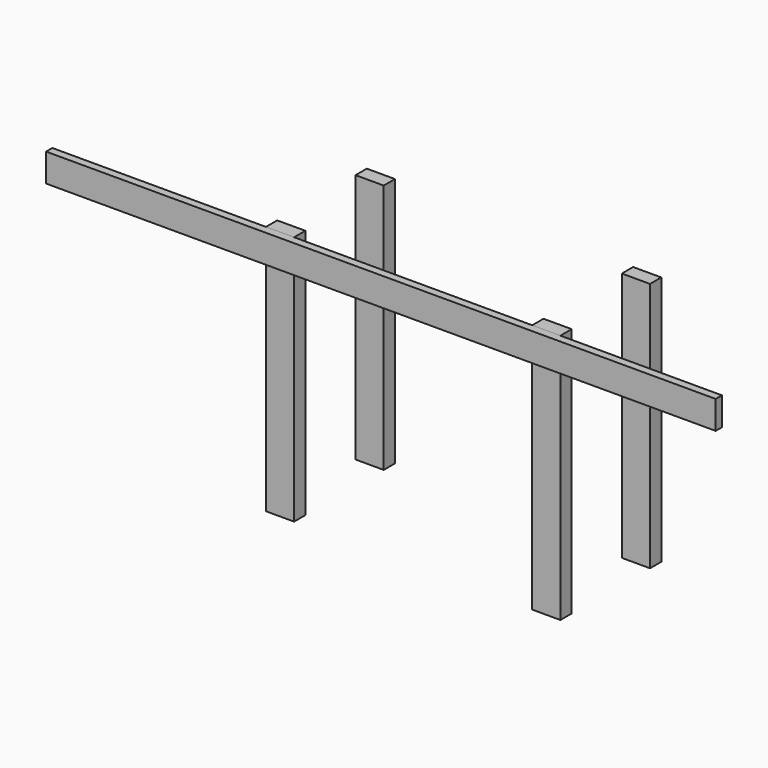
from build123d import *

# Parameters (mm, degrees)
F1_W     = 90
F1_H     = 45
F2_DEPTH = 800
F3_W     = 2139.529526
F3_H     = 90
F4_DEPTH = 25


with BuildPart() as f2:
    # F1 (on Top) → F2 (new body)
    with BuildSketch(Plane.XY):
        with Locations((-425.454595, 178.977289)):
            Rectangle(F1_W, F1_H)
        with Locations((-425.454595, -178.977289)):
            Rectangle(F1_W, F1_H)
        with Locations((425.454595, 178.977289)):
            Rectangle(F1_W, F1_H)
        with Locations((425.454595, -178.977289)):
            Rectangle(F1_W, F1_H)
    extrude(amount=-F2_DEPTH)


with BuildPart() as f4:
    # F3 (on face) → F4 (new body)
    with BuildSketch(Plane.XZ.offset(201.477289)):
        with Locations((-83.176464, -45)):
            Rectangle(F3_W, F3_H)
    extrude(amount=F4_DEPTH)


solid = Compound([f2.part, f4.part])
